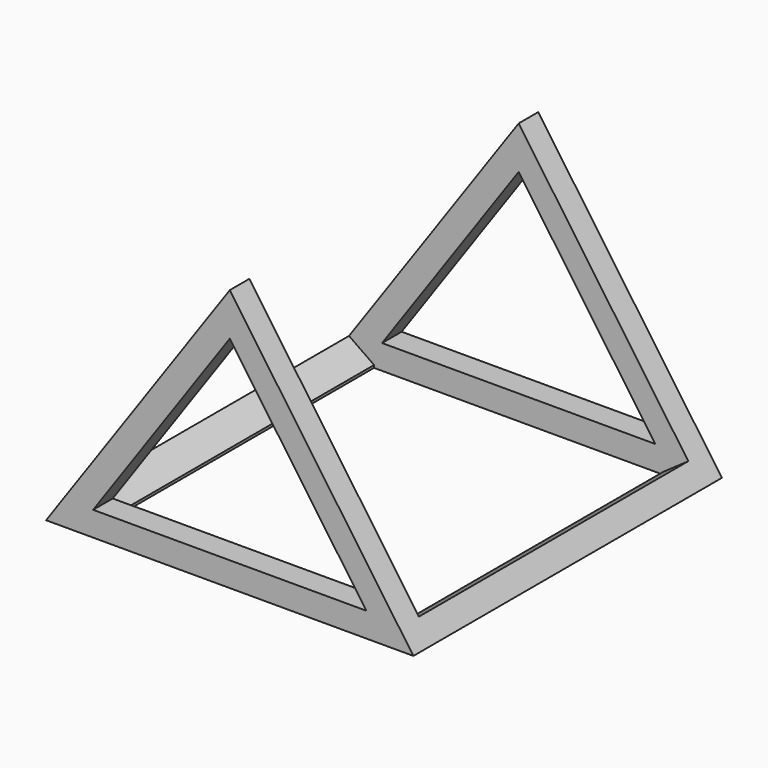
from build123d import *

# Parameters (mm, degrees)
F1_DEPTH  = 400
F2_W      = 698.4
F2_H      = 562.6532291316
F3_DEPTH  = 101.6
F4_W      = 698.4
F4_H      = 562.6532291316
F5_DEPTH  = 101.6
F7_DEPTH  = 800.001
F8_W      = 599.9999940395
F8_H      = 698.1473760128
F9_DEPTH  = 584.2
F10_DEPTH = 101.6


with BuildPart() as f1:
    # F0 (on Front) → F1 (new body, symmetric)
    with BuildSketch(Plane.XZ):
        Polygon((0, 268.4965017427), (-381, -275.6278888261), (381, -275.6278888261), align=None)
    extrude(amount=F1_DEPTH, both=True)

    # F2 (on face) → F3 (cut)
    with BuildSketch(Plane(origin=(126.1520906972, 0, 88.3326448671), x_dir=(0, 1, 0), z_dir=(0.8191520443, 0, 0.5735764364))):
        with Locations((0, -112.1871562789)):
            Rectangle(F2_W, F2_H)
    extrude(amount=-F3_DEPTH, mode=Mode.SUBTRACT)

    # F4 (on face) → F5 (cut)
    with BuildSketch(Plane(origin=(-126.1520906972, 0, 88.3326448671), x_dir=(0, -1, 0), z_dir=(-0.8191520443, 0, 0.5735764364))):
        with Locations((0, -112.1871562789)):
            Rectangle(F4_W, F4_H)
    extrude(amount=-F5_DEPTH, mode=Mode.SUBTRACT)

    # F6 (on face) → F7 (cut, through all)
    with BuildSketch(Plane(origin=(0, 400, 0), x_dir=(-1, 0, 0), z_dir=(0, 1, 0))):
        Polygon((0, 179.9294045251), (-283.4141079499, -224.8278888261), (283.4141079499, -224.8278888261), align=None)
    extrude(amount=-F7_DEPTH, mode=Mode.SUBTRACT)

    # F8 (on face) → F9 (cut)
    with BuildSketch(Plane.XY.offset(-224.8278888261)):
        with Locations((-1.49012e-05, 0.1263119936)):
            Rectangle(F8_W, F8_H)
    extrude(amount=F9_DEPTH, mode=Mode.SUBTRACT)

    # F8 (on face) → F10 (cut)
    with BuildSketch(Plane.XY.offset(-224.8278888261)):
        with Locations((-1.49012e-05, 0.1263119936)):
            Rectangle(F8_W, F8_H)
    extrude(amount=-F10_DEPTH, mode=Mode.SUBTRACT)


solid = f1.part
